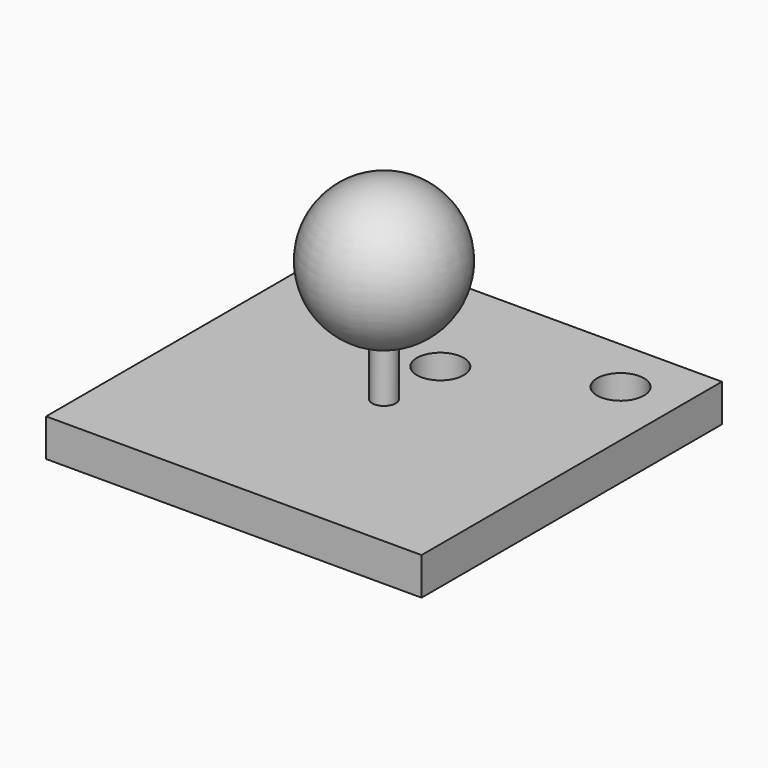
from build123d import *

# Parameters (mm, degrees)
F2_W     = 8
F2_H     = 8
F2_R     = 0.5
F3_DEPTH = 0.8


with BuildPart() as f1:
    # F0 (on Right) → F1 (revolve)
    with BuildSketch(Plane.YZ):
        with BuildLine():
            Line((-0.25, 1.12098), (-0.25, 0))
            Line((-0.25, 0), (0, 0))
            Line((0, 0), (0, 1.1))
            ThreePointArc((0, 1.1), (-0.125439, 1.105254), (-0.25, 1.12098))
        make_face()
        with BuildLine():
            ThreePointArc((0, 4.1), (-1.494746, 2.725439), (-0.25, 1.12098))
            ThreePointArc((-0.25, 1.12098), (-0.125439, 1.105254), (0, 1.1))
            Line((0, 1.1), (0, 1.6))
            Line((0, 1.6), (0, 4.1))
        make_face()
    revolve(axis=Axis((0, 0, 2.85), (0, 0, -1)))

    # F2 (on Top) → F3 (join)
    with BuildSketch(Plane.XY):
        Rectangle(F2_W, F2_H)
        with Locations((0, 1.5)):
            Circle(F2_R, mode=Mode.SUBTRACT)
        with Locations((2.8, 2.8)):
            Circle(F2_R, mode=Mode.SUBTRACT)
    extrude(amount=-F3_DEPTH)


solid = f1.part
